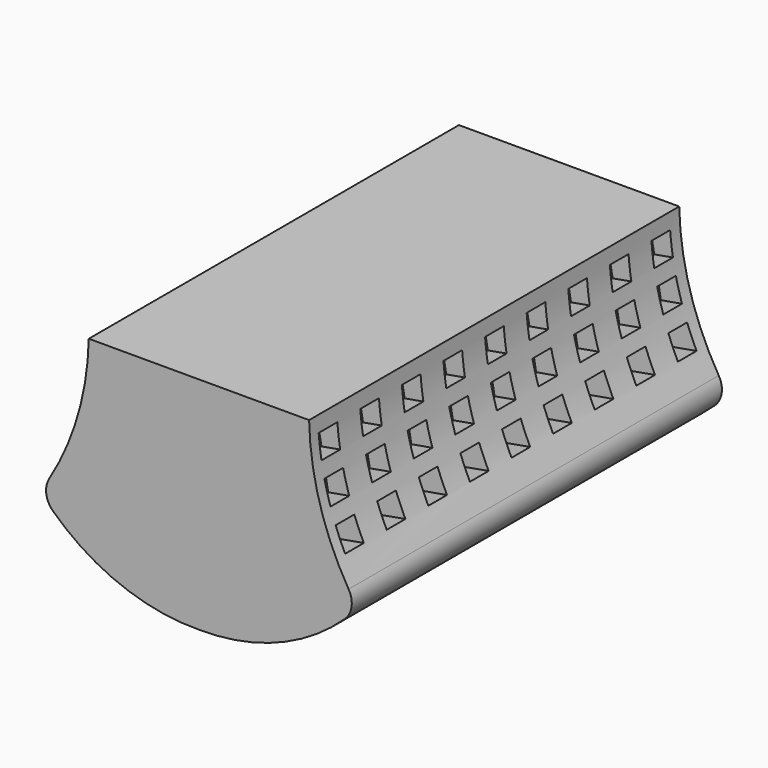
from build123d import *

# Parameters (mm, degrees)
F1_DEPTH      = 205
F1_DEPTH_BACK = 5
F3_W          = 10.6
F3_H          = 10.6
F4_DEPTH      = 20
F6_W          = 10.6
F6_H          = 10.6
F7_DEPTH      = 20
F8_R          = 10


with BuildPart() as f1:
    # F0 (on Front) → F1 (new body, two sides)
    with BuildSketch(Plane.XZ) as f1_sk:
        with BuildLine():
            Line((50, 100), (0, 100))
            Line((0, 100), (-50, 100))
            ThreePointArc((-50, 100), (-56.028533, 64.312786), (-72.088898, 31.878467))
            ThreePointArc((-72.088898, 31.878467), (-39.52791, 8.061851), (0, 0))
            ThreePointArc((0, 0), (39.52791, 8.061851), (72.088898, 31.878467))
            ThreePointArc((72.088898, 31.878467), (56.028533, 64.312786), (50, 100))
        make_face()
    extrude(amount=F1_DEPTH)
    extrude(f1_sk.sketch, amount=-F1_DEPTH_BACK)

    # F3 (on face) → F4 (cut)
    with BuildSketch(Plane(origin=(75.366691, 0, 13.289181), x_dir=(0, 1, 0), z_dir=(0.984808, 0, 0.173648))):
        with Locations((-194.700197, 77.498316)):
            Rectangle(F3_W, F3_H)
        with Locations((-171.100197, 77.498316)):
            Rectangle(F3_W, F3_H)
        with Locations((-147.500197, 77.498316)):
            Rectangle(F3_W, F3_H)
        with Locations((-123.900197, 77.498316)):
            Rectangle(F3_W, F3_H)
        with Locations((-100.300197, 77.498316)):
            Rectangle(F3_W, F3_H)
        with Locations((-76.700197, 77.498316)):
            Rectangle(F3_W, F3_H)
        with Locations((-53.100197, 77.498316)):
            Rectangle(F3_W, F3_H)
        with Locations((-29.500197, 77.498316)):
            Rectangle(F3_W, F3_H)
        with Locations((-5.900197, 77.498316)):
            Rectangle(F3_W, F3_H)
        with Locations((-5.900197, 59.898316)):
            Rectangle(F3_W, F3_H)
        with Locations((-29.500197, 59.898316)):
            Rectangle(F3_W, F3_H)
        with Locations((-53.100197, 59.898316)):
            Rectangle(F3_W, F3_H)
        with Locations((-76.700197, 59.898316)):
            Rectangle(F3_W, F3_H)
        with Locations((-100.300197, 59.898316)):
            Rectangle(F3_W, F3_H)
        with Locations((-123.900197, 59.898316)):
            Rectangle(F3_W, F3_H)
        with Locations((-147.500197, 59.898316)):
            Rectangle(F3_W, F3_H)
        with Locations((-171.100197, 59.898316)):
            Rectangle(F3_W, F3_H)
        with Locations((-194.700197, 59.898316)):
            Rectangle(F3_W, F3_H)
        with Locations((-194.700197, 42.298316)):
            Rectangle(F3_W, F3_H)
        with Locations((-171.100197, 42.298316)):
            Rectangle(F3_W, F3_H)
        with Locations((-147.500197, 42.298316)):
            Rectangle(F3_W, F3_H)
        with Locations((-123.900197, 42.298316)):
            Rectangle(F3_W, F3_H)
        with Locations((-100.300197, 42.298316)):
            Rectangle(F3_W, F3_H)
        with Locations((-76.700197, 42.298316)):
            Rectangle(F3_W, F3_H)
        with Locations((-53.100197, 42.298316)):
            Rectangle(F3_W, F3_H)
        with Locations((-29.500197, 42.298316)):
            Rectangle(F3_W, F3_H)
        with Locations((-5.900197, 42.298316)):
            Rectangle(F3_W, F3_H)
    extrude(amount=-F4_DEPTH, mode=Mode.SUBTRACT)

    # F6 (on face) → F7 (cut)
    with BuildSketch(Plane(origin=(-75.366691, 0, 13.289181), x_dir=(0, 1, 0), z_dir=(0.984808, 0, -0.173648))):
        with Locations((-5.3, 77.484645)):
            Rectangle(F6_W, F6_H)
        with Locations((-28.9, 77.484645)):
            Rectangle(F6_W, F6_H)
        with Locations((-52.5, 77.484645)):
            Rectangle(F6_W, F6_H)
        with Locations((-76.1, 77.484645)):
            Rectangle(F6_W, F6_H)
        with Locations((-99.7, 77.484645)):
            Rectangle(F6_W, F6_H)
        with Locations((-123.3, 77.484645)):
            Rectangle(F6_W, F6_H)
        with Locations((-146.9, 77.484645)):
            Rectangle(F6_W, F6_H)
        with Locations((-170.5, 77.484645)):
            Rectangle(F6_W, F6_H)
        with Locations((-194.1, 77.484645)):
            Rectangle(F6_W, F6_H)
        with Locations((-194.1, 59.884645)):
            Rectangle(F6_W, F6_H)
        with Locations((-170.5, 59.884645)):
            Rectangle(F6_W, F6_H)
        with Locations((-146.9, 59.884645)):
            Rectangle(F6_W, F6_H)
        with Locations((-123.3, 59.884645)):
            Rectangle(F6_W, F6_H)
        with Locations((-99.7, 59.884645)):
            Rectangle(F6_W, F6_H)
        with Locations((-76.1, 59.884645)):
            Rectangle(F6_W, F6_H)
        with Locations((-52.5, 59.884645)):
            Rectangle(F6_W, F6_H)
        with Locations((-28.9, 59.884645)):
            Rectangle(F6_W, F6_H)
        with Locations((-5.3, 59.884645)):
            Rectangle(F6_W, F6_H)
        with Locations((-5.3, 42.284645)):
            Rectangle(F6_W, F6_H)
        with Locations((-28.9, 42.284645)):
            Rectangle(F6_W, F6_H)
        with Locations((-52.5, 42.284645)):
            Rectangle(F6_W, F6_H)
        with Locations((-76.1, 42.284645)):
            Rectangle(F6_W, F6_H)
        with Locations((-99.7, 42.284645)):
            Rectangle(F6_W, F6_H)
        with Locations((-123.3, 42.284645)):
            Rectangle(F6_W, F6_H)
        with Locations((-146.9, 42.284645)):
            Rectangle(F6_W, F6_H)
        with Locations((-170.5, 42.284645)):
            Rectangle(F6_W, F6_H)
        with Locations((-194.1, 42.284645)):
            Rectangle(F6_W, F6_H)
    extrude(amount=F7_DEPTH, mode=Mode.SUBTRACT)

    # F8
    f8_edges = [f1.edges().sort_by_distance(p)[0] for p in [
        (72.088898, -100, 31.878467),
        (-72.088898, -100, 31.878467),
    ]]
    fillet(f8_edges, radius=F8_R)


solid = f1.part
